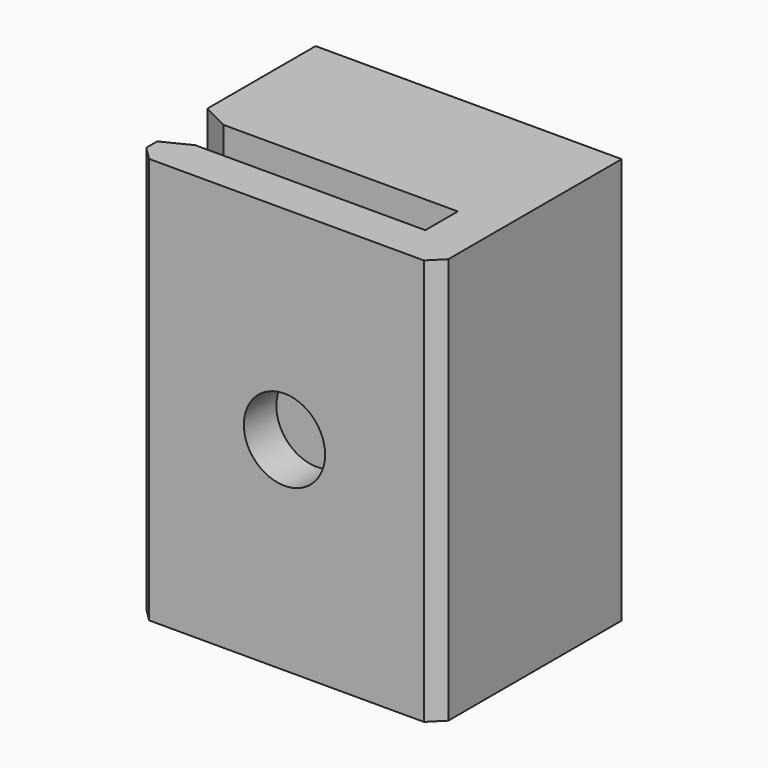
from build123d import *

# Parameters (mm, degrees)
CYLINDER005_R     = 3
CYLINDER005_DEPTH = 25
CYLINDER006_R     = 1.7
CYLINDER006_DEPTH = 25
BOX014_W          = 22.6
BOX014_H          = 11
BOX014_DEPTH      = 30
BOX015_W          = 3.3
BOX015_H          = 6
BOX015_DEPTH      = 30
BOX016_W          = 20
BOX016_H          = 3
BOX016_DEPTH      = 30
CHAMFER008_SIZE   = 1
CHAMFER009_SIZE2  = 2
CHAMFER009_SIZE   = 1
CHAMFER010_SIZE2  = 1
CHAMFER010_SIZE   = 2
CHAMFER011_SIZE   = 1


with BuildPart() as cylinder005:
    # Cylinder005 → Cylinder005 (new body)
    with BuildSketch(Plane(origin=(0, 5, 15), x_dir=(1, 0, 0), z_dir=(0, -1, 0))):
        Circle(CYLINDER005_R)
    extrude(amount=CYLINDER005_DEPTH)


with BuildPart() as cylinder006:
    # Cylinder006 → Cylinder006 (new body)
    with BuildSketch(Plane(origin=(0, 16, 15), x_dir=(1, 0, 0), z_dir=(0, -1, 0))):
        Circle(CYLINDER006_R)
    extrude(amount=CYLINDER006_DEPTH)


with BuildPart() as cube014:
    # Box014 → Box014 (new body)
    with BuildSketch(Plane(origin=(-11.3, 0, 0), x_dir=(1, 0, 0), z_dir=(0, 0, 1))):
        with Locations((11.3, 5.5)):
            Rectangle(BOX014_W, BOX014_H)
    extrude(amount=BOX014_DEPTH)


with BuildPart() as cube015:
    # Box015 → Box015 (new body)
    with BuildSketch(Plane(origin=(8, -6, 0), x_dir=(1, 0, 0), z_dir=(0, 0, 1))):
        with Locations((1.65, 3)):
            Rectangle(BOX015_W, BOX015_H)
    extrude(amount=BOX015_DEPTH)


with BuildPart() as clip_back_top_bottom:
    # Box016 → Box016 (new body)
    with BuildSketch(Plane(origin=(-11, -6, 0), x_dir=(1, 0, 0), z_dir=(0, 0, 1))):
        with Locations((10, 1.5)):
            Rectangle(BOX016_W, BOX016_H)
    extrude(amount=BOX016_DEPTH)

    # Fusion004: union Cube014, Cube015
    add(cube014.part)
    add(cube015.part)

    # Chamfer008
    chamfer008_edges = [clip_back_top_bottom.edges().sort_by_distance(p)[0] for p in [
        (11.3, -6, 15),
    ]]
    chamfer(chamfer008_edges, length=CHAMFER008_SIZE)

    # Chamfer009
    chamfer009_edges = [clip_back_top_bottom.edges().sort_by_distance(p)[0] for p in [
        (-11.3, 0, 15),
    ]]
    chamfer009_side = clip_back_top_bottom.faces().sort_by_distance((-11.3, 5.5, 15))[0]
    chamfer(chamfer009_edges, length=CHAMFER009_SIZE, length2=CHAMFER009_SIZE2, reference=chamfer009_side)

    # Chamfer010
    chamfer010_edges = [clip_back_top_bottom.edges().sort_by_distance(p)[0] for p in [
        (-11, -3, 15),
    ]]
    chamfer010_side = clip_back_top_bottom.faces().sort_by_distance((-1.5, -3, 15))[0]
    chamfer(chamfer010_edges, length=CHAMFER010_SIZE, length2=CHAMFER010_SIZE2, reference=chamfer010_side)

    # Cut003: cut Cylinder006
    add(cylinder006.part, mode=Mode.SUBTRACT)

    # Cut004: cut Cylinder005
    add(cylinder005.part, mode=Mode.SUBTRACT)

    # Chamfer011
    chamfer011_edges = [clip_back_top_bottom.edges().sort_by_distance(p)[0] for p in [
        (-11, -6, 15),
    ]]
    chamfer(chamfer011_edges, length=CHAMFER011_SIZE)


solid = clip_back_top_bottom.part
